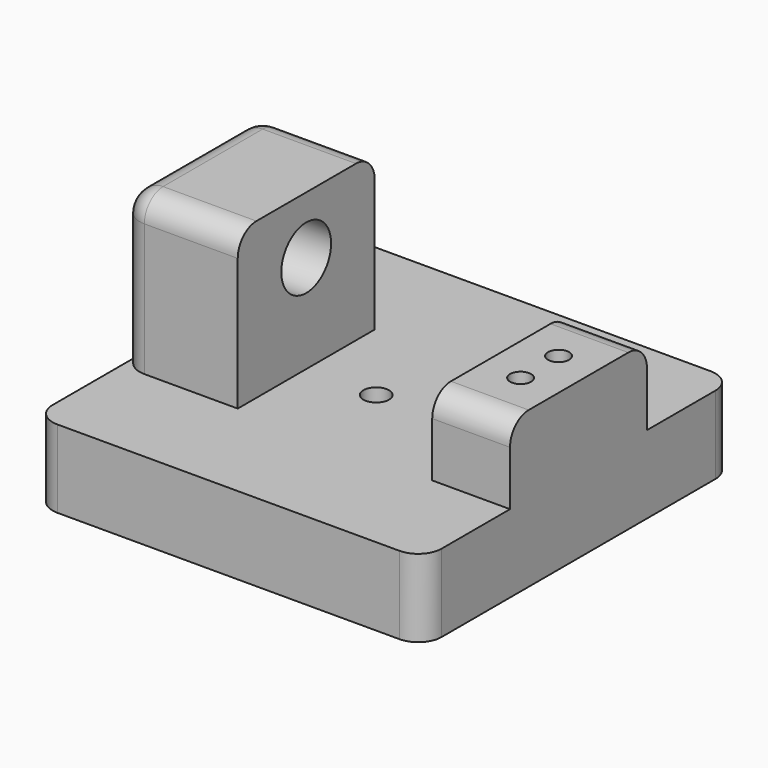
from build123d import *

# Parameters (mm, degrees)
F0_W      = 50
F0_H      = 50
F1_DEPTH  = 10
F2_W      = 15
F2_H      = 22
F3_DEPTH  = 20
F4_R      = 4
F5_DEPTH  = 10
F6_R      = 1.65
F7_DEPTH  = 10.001
F8_W      = 10
F8_H      = 22
F9_DEPTH  = 10
F10_R     = 1.35
F11_DEPTH = 11
F12_R     = 3


with BuildPart() as f1:
    # F0 (on Top) → F1 (new body)
    with BuildSketch(Plane.XY):
        with Locations((10, 0)):
            Rectangle(F0_W, F0_H)
    extrude(amount=F1_DEPTH)

    # F2 (on face) → F3 (join)
    with BuildSketch(Plane.XY.offset(10)):
        with Locations((-7.5, 0)):
            Rectangle(F2_W, F2_H)
    extrude(amount=F3_DEPTH)

    # F4 (on face) → F5 (cut)
    with BuildSketch(Plane.YZ):
        with Locations((0, 22.6)):
            Circle(F4_R)
    extrude(amount=-F5_DEPTH, mode=Mode.SUBTRACT)

    # F6 (on face) → F7 (cut, through all)
    with BuildSketch(Plane.XY.offset(10)):
        with Locations((9, 0)):
            Circle(F6_R)
    extrude(amount=-F7_DEPTH, mode=Mode.SUBTRACT)

    # F8 (on face) → F9 (join)
    with BuildSketch(Plane.XY.offset(10)):
        with Locations((30, 0)):
            Rectangle(F8_W, F8_H)
    extrude(amount=F9_DEPTH)

    # F10 (on face) → F11 (cut)
    with BuildSketch(Plane.XY.offset(20)):
        with Locations((30, 3.05)):
            Circle(F10_R)
        with Locations((30, -3.05)):
            Circle(F10_R)
    extrude(amount=-F11_DEPTH, mode=Mode.SUBTRACT)

    # F12
    f12_edges = [f1.edges().sort_by_distance(p)[0] for p in [
        (-15, 0, 30),
        (-15, -25, 5),
        (35, -25, 5),
        (35, 25, 5),
        (-15, 25, 5),
        (-15, 11, 20),
        (-15, -11, 20),
        (-7.5, 11, 30),
        (-7.5, -11, 30),
        (30, 11, 20),
        (30, -11, 20),
    ]]
    fillet(f12_edges, radius=F12_R)


solid = f1.part
